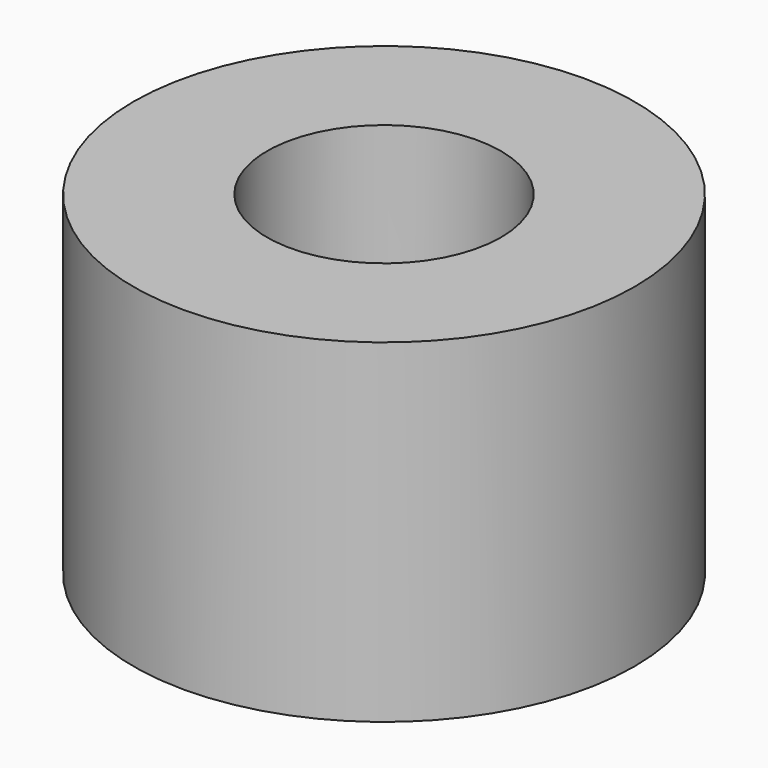
from build123d import *

# Parameters (mm, degrees)
CYLINDER004_R     = 2.1
CYLINDER004_DEPTH = 6
CYLINDER007_R     = 4.5
CYLINDER007_DEPTH = 6


with BuildPart() as cylinder004:
    # Cylinder004 → Cylinder004 (new body)
    with BuildSketch(Plane(origin=(46.25, 41.59, 0), x_dir=(1, 0, 0), z_dir=(0, 0, 1))):
        Circle(CYLINDER004_R)
    extrude(amount=CYLINDER004_DEPTH)


with BuildPart() as cut001003007:
    # Cylinder007 → Cylinder007 (new body)
    with BuildSketch(Plane(origin=(46.25, 41.59, 0), x_dir=(1, 0, 0), z_dir=(0, 0, 1))):
        Circle(CYLINDER007_R)
    extrude(amount=CYLINDER007_DEPTH)

    # Cut001003007: cut Cylinder004
    add(cylinder004.part, mode=Mode.SUBTRACT)


solid = cut001003007.part
